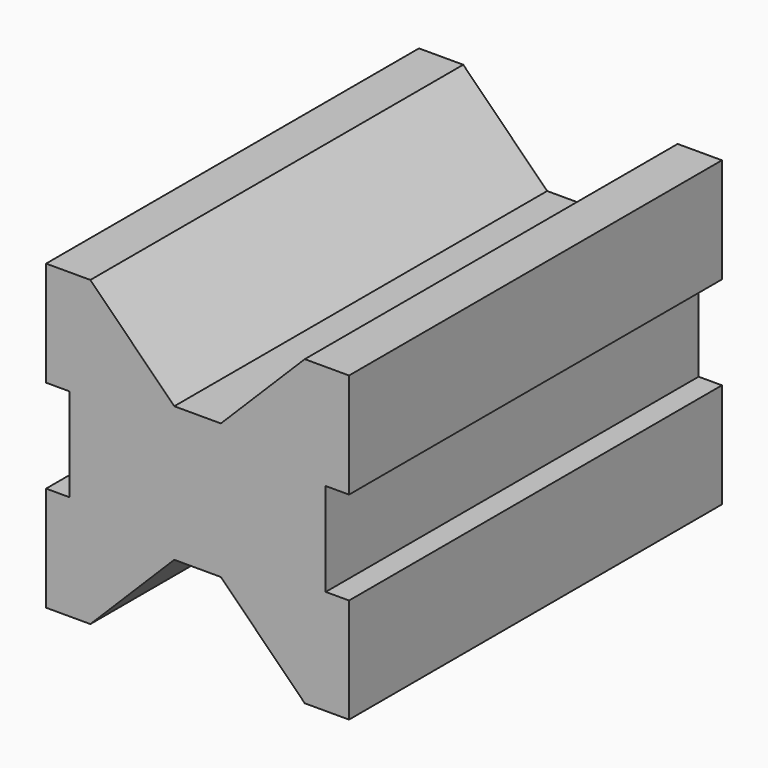
from build123d import *

# Parameters (mm, degrees)
F1_DEPTH = 50


with BuildPart() as f1:
    # F0 (on Front) → F1 (new body, symmetric)
    with BuildSketch(Plane.XZ):
        Polygon((0, -14.5), (0, 14.5), (-5, 14.5), (-23, 32.5), (-32.5, 32.5), (-32.5, 10), (-27.5, 10), (-27.5, -10), (-32.5, -10), (-32.5, -32.5), (-23, -32.5), (-5, -14.5), align=None)
        Polygon((5, 14.5), (0, 14.5), (0, -14.5), (5, -14.5), (23, -32.5), (32.5, -32.5), (32.5, -10), (27.5, -10), (27.5, 10), (32.5, 10), (32.5, 32.5), (23, 32.5), align=None)
    extrude(amount=F1_DEPTH, both=True)


solid = f1.part
